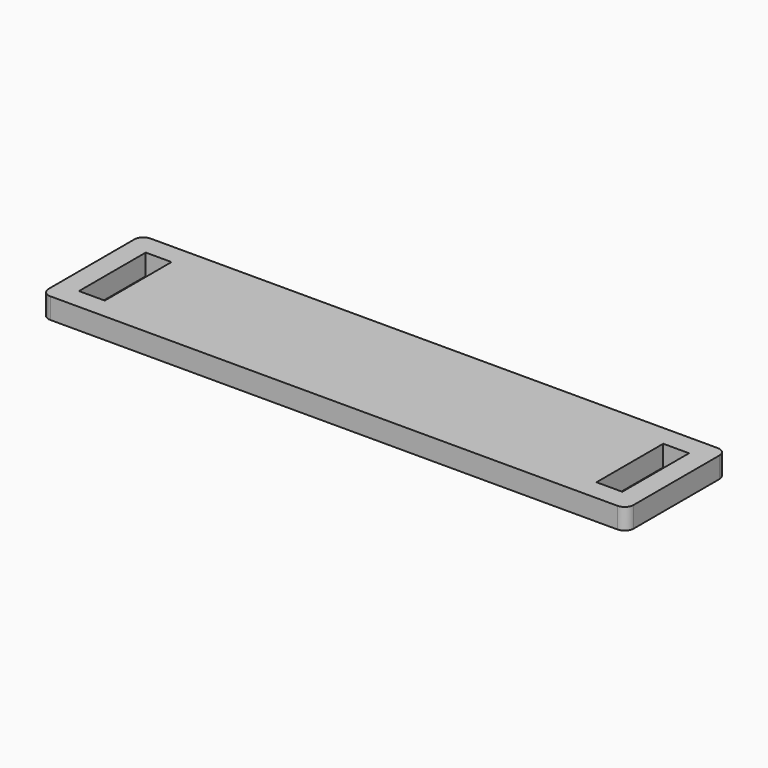
from build123d import *

# Parameters (mm, degrees)
F0_W     = 165
F0_H     = 28
F1_DEPTH = 7
F2_R     = 3


with BuildPart() as f1:
    # F0 (on Top) → F1 (new body)
    with BuildSketch(Plane.XY):
        Polygon((-8.65, 28), (0, 28), (165, 28), (173.65, 28), (173.65, 35), (-8.65, 35), align=None)
        Polygon((-15.65, 0), (-8.65, 0), (-8.65, 28), (-8.65, 35), (-15.65, 35), align=None)
        Polygon((165, 0), (0, 0), (-8.65, 0), (-15.65, 0), (-15.65, -7), (173.65, -7), (173.65, 0), align=None)
        with Locations((82.5, 14)):
            Rectangle(F0_W, F0_H)
        Polygon((173.65, 28), (173.65, 0), (173.65, -7), (180.65, -7), (180.65, 35), (173.65, 35), align=None)
    extrude(amount=F1_DEPTH)

    # F2
    f2_edges = [f1.edges().sort_by_distance(p)[0] for p in [
        (180.65, -7, 3.5),
        (180.65, 35, 3.5),
        (-15.65, -7, 3.5),
        (-15.65, 35, 3.5),
    ]]
    fillet(f2_edges, radius=F2_R)


solid = f1.part
